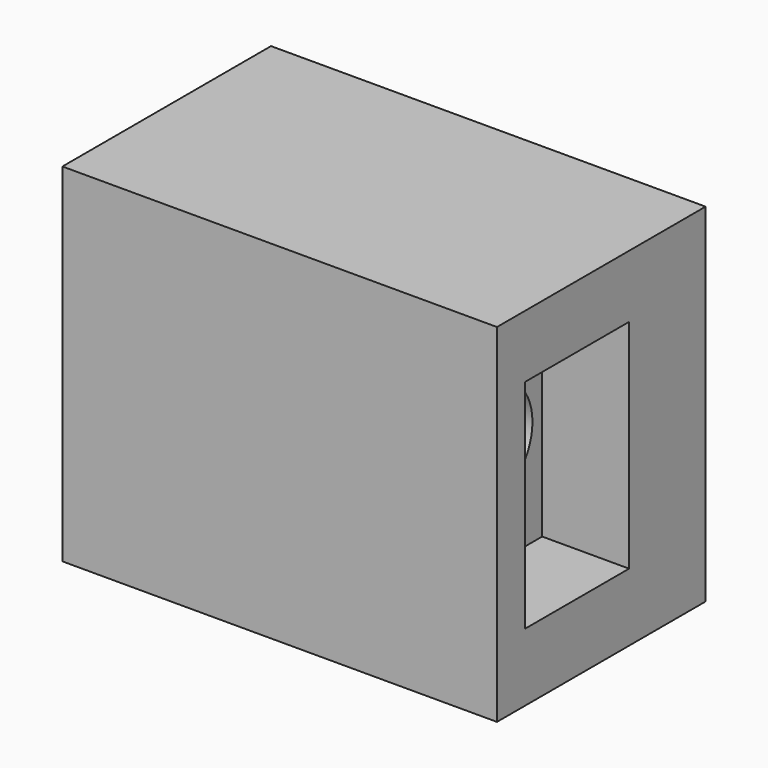
from build123d import *

# Parameters (mm, degrees)
F0_W      = 127.6799589396
F0_H      = 51.2897223234
F1_DEPTH  = 114.3676936626
F2_W      = 115.8702634275
F2_H      = 50.820171833
F3_DEPTH  = 25
F4_DEPTH  = 30
F7_W      = 250
F7_H      = 200
F8_DEPTH  = 150
F9_W      = 75
F9_H      = 125
F10_DEPTH = 50
F11_R     = 30
F12_DEPTH = 200.001


with BuildPart() as f1:
    # F0 (on Front) → F1 (new body)
    with BuildSketch(Plane.XZ):
        with Locations((63.8399794698, -56.7509904504)):
            Rectangle(F0_W, F0_H)
    extrude(amount=F1_DEPTH)


with BuildPart() as f3:
    # F2 (on Front) → F3 (new body)
    with BuildSketch(Plane.XZ):
        with Locations((103.8953531533, 116.1821186543)):
            Rectangle(F2_W, F2_H)
    extrude(amount=F3_DEPTH)

    # F4 (add): a face of the model
    f4_faces = [f3.faces().sort_by_distance(p)[0] for p in [
        (103.8953531533, -25, 116.1821186543),
    ]]
    extrude(f4_faces, amount=F4_DEPTH)


with BuildPart() as f8:
    # F7 (on Front) → F8 (new body)
    with BuildSketch(Plane.XZ):
        Rectangle(F7_W, F7_H)
    extrude(amount=F8_DEPTH)

    # F9 (on face) → F10 (cut)
    with BuildSketch(Plane.YZ.offset(125)):
        with Locations((-92.5, 1.5)):
            Rectangle(F9_W, F9_H)
    extrude(amount=-F10_DEPTH, mode=Mode.SUBTRACT)

    # F11 (on face) → F12 (cut, through all)
    with BuildSketch(Plane.YZ.offset(75)):
        with Locations((-92, 0)):
            Circle(F11_R)
    extrude(amount=-F12_DEPTH, mode=Mode.SUBTRACT)


solid = f8.part
